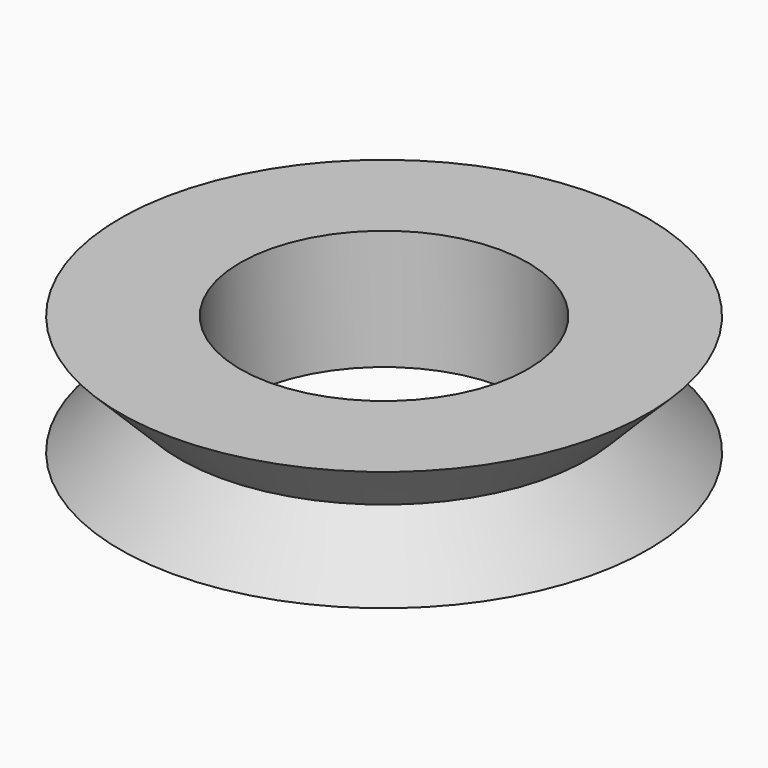
from build123d import *


with BuildPart() as f1:
    # F0 (on Right) → F1 (revolve)
    with BuildSketch(Plane.YZ):
        Polygon((-22, 10), (-17, 5), (-17, 10), align=None)
        Polygon((-22, 0), (-17, 0), (-17, 5), align=None)
        Polygon((-17, 0), (-12, 0), (-12, 10), (-17, 10), (-17, 5), align=None)
    revolve(axis=Axis((0, 0, 7.720471), (0, 0, 1)))


solid = f1.part
